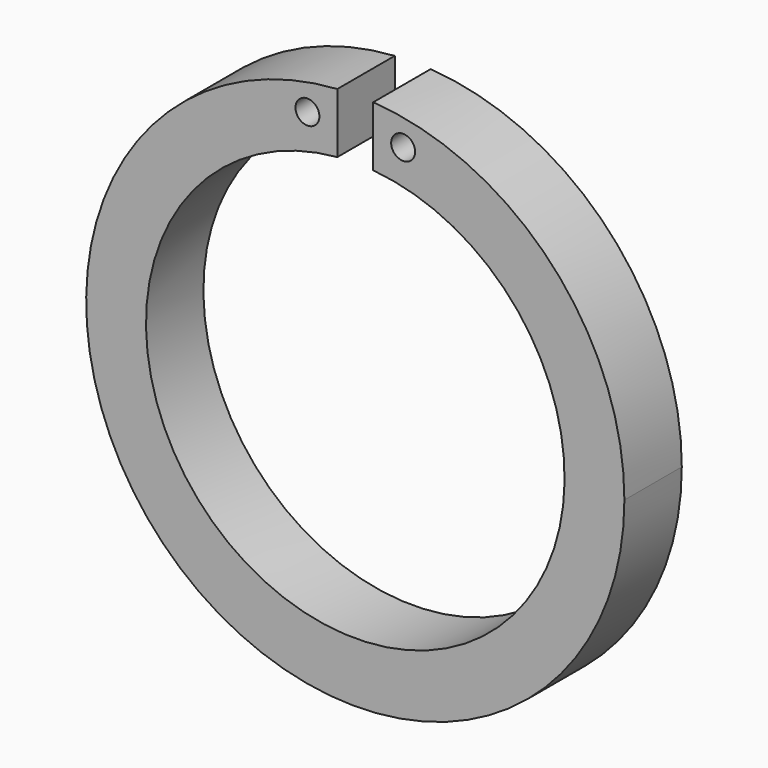
from build123d import *

# Parameters (mm, degrees)
F0_R     = 5.715
F0_R_2   = 4.445
F1_DEPTH = 0.762
F2_R     = 0.254
F3_DEPTH = 12.7


with BuildPart() as f1:
    # F0 (on Front) → F1 (new body, symmetric)
    with BuildSketch(Plane.XZ):
        Circle(F0_R)
        Circle(F0_R_2, mode=Mode.SUBTRACT)
    extrude(amount=F1_DEPTH, both=True)

    # F2 (on Front) → F3 (cut, symmetric)
    with BuildSketch(Plane.XZ):
        with BuildLine():
            ThreePointArc((0.381, 5.7022858574), (0, 5.715), (-0.381, 5.7022858574))
            Line((-0.381, 5.7022858574), (-0.381, 4.4286413266))
            ThreePointArc((-0.381, 4.4286413266), (0, 4.445), (0.381, 4.4286413266))
            Line((0.381, 4.4286413266), (0.381, 5.7022858574))
        make_face()
        with Locations((1.016, 5.065463592)):
            Circle(F2_R)
        with Locations((-1.016, 5.065463592)):
            Circle(F2_R)
    extrude(amount=F3_DEPTH, both=True, mode=Mode.SUBTRACT)


solid = f1.part
